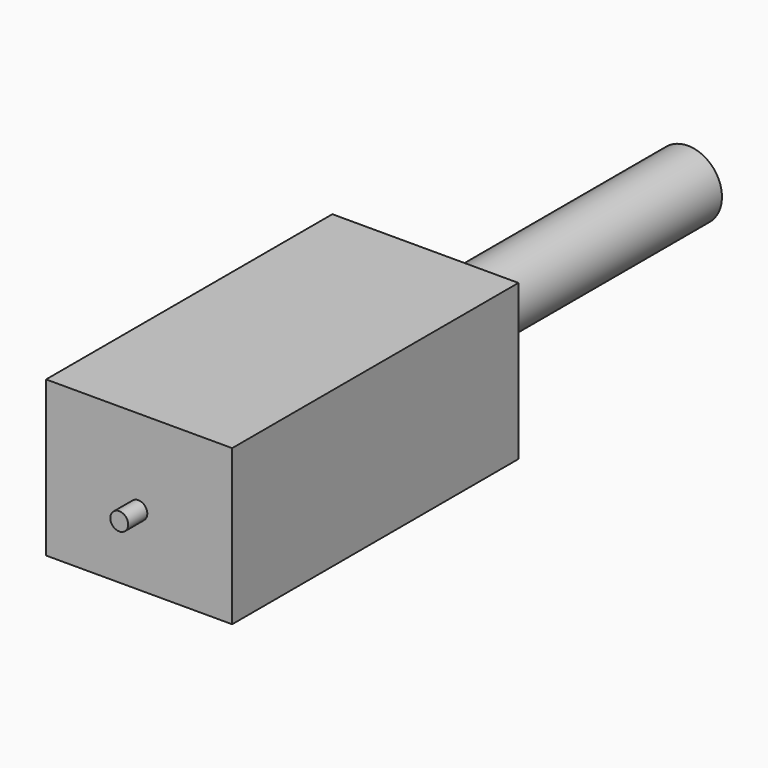
from build123d import *

# Parameters (mm, degrees)
SKETCH_W     = 15.6
SKETCH_H     = 30
PAD_DEPTH    = 13
SKETCH001_R  = 2.85
PAD001_DEPTH = 28
SKETCH002_R  = 0.75
PAD002_DEPTH = 2


with BuildPart() as part:
    # Sketch → Pad (new body)
    with BuildSketch(Plane.XY):
        with Locations((3.092153, -5.992056)):
            Rectangle(SKETCH_W, SKETCH_H)
    extrude(amount=PAD_DEPTH)

    # Sketch001 (on Face4 of Pad) → Pad001 (join)
    with BuildSketch(Plane(origin=(0, 9.007944, 0), x_dir=(-1, 0, 0), z_dir=(0, 1, 0))):
        with Locations((-2.708779, 6.233849)):
            Circle(SKETCH001_R)
    extrude(amount=PAD001_DEPTH)

    # Sketch002 (on Face3 of Pad001) → Pad002 (join)
    with BuildSketch(Plane.XZ.offset(20.992056)):
        with Locations((3.028248, 5.855581)):
            Circle(SKETCH002_R)
    extrude(amount=PAD002_DEPTH)


solid = part.part
